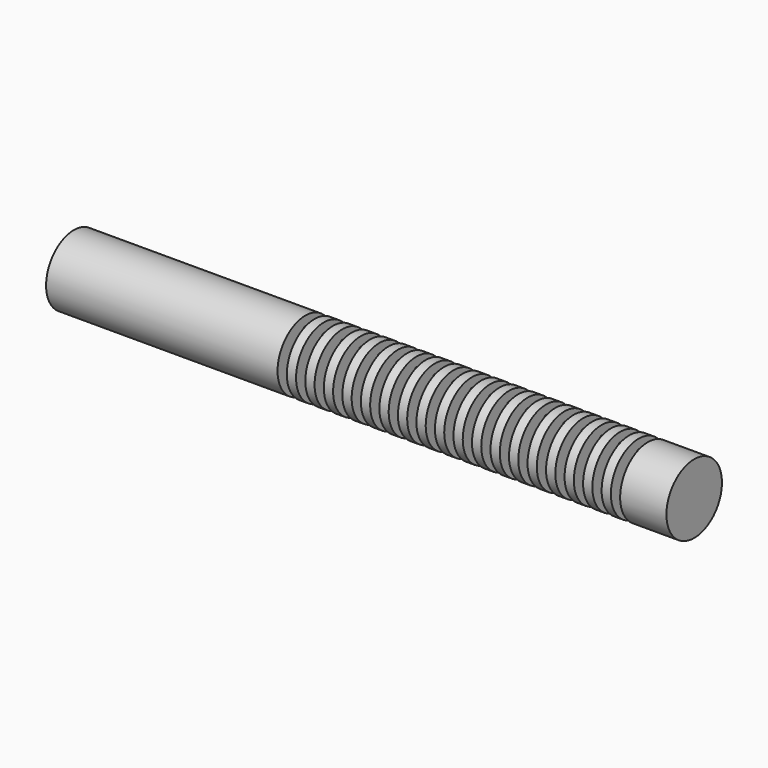
from build123d import *

# Parameters (mm, degrees)
F1_W     = 20
F1_H     = 57.5
F2_W     = 100
F2_H     = 75
F4_R     = 5
F5_DEPTH = 765
F6_DEPTH = 765


with BuildPart() as f3:
    # F0 (on Top) → F3 (revolve)
    with BuildSketch(Plane.XY):
        Polygon((-200, 0), (-500, 0), (-500, -75), (0, -75), (0, -17.5), (-200, -17.5), align=None)
    revolve(axis=Axis((-350, 0, 0), (-1, 0, 0)))


with BuildPart() as f3b:
    # F1 (on Top) → F3, piece 2 (revolve)
    with BuildSketch(Plane.XY):
        with Locations((190, -46.25)):
            Rectangle(F1_W, F1_H)
    revolve(axis=Axis((-350, 0, 0), (-1, 0, 0)))


with BuildPart() as f3c:
    # F1 (on Top) → F3, piece 3 (revolve)
    with BuildSketch(Plane.XY):
        with Locations((390, -46.25)):
            Rectangle(F1_W, F1_H)
    revolve(axis=Axis((-350, 0, 0), (-1, 0, 0)))


with BuildPart() as f3d:
    # F1 (on Top) → F3, piece 4 (revolve)
    with BuildSketch(Plane.XY):
        with Locations((150, -46.25)):
            Rectangle(F1_W, F1_H)
    revolve(axis=Axis((-350, 0, 0), (-1, 0, 0)))


with BuildPart() as f3e:
    # F1 (on Top) → F3, piece 5 (revolve)
    with BuildSketch(Plane.XY):
        with Locations((110, -46.25)):
            Rectangle(F1_W, F1_H)
    revolve(axis=Axis((-350, 0, 0), (-1, 0, 0)))


with BuildPart() as f3f:
    # F1 (on Top) → F3, piece 6 (revolve)
    with BuildSketch(Plane.XY):
        with Locations((430, -46.25)):
            Rectangle(F1_W, F1_H)
    revolve(axis=Axis((-350, 0, 0), (-1, 0, 0)))


with BuildPart() as f3g:
    # F1 (on Top) → F3, piece 7 (revolve)
    with BuildSketch(Plane.XY):
        with Locations((70, -46.25)):
            Rectangle(F1_W, F1_H)
    revolve(axis=Axis((-350, 0, 0), (-1, 0, 0)))


with BuildPart() as f3h:
    # F1 (on Top) → F3, piece 8 (revolve)
    with BuildSketch(Plane.XY):
        with Locations((350, -46.25)):
            Rectangle(F1_W, F1_H)
    revolve(axis=Axis((-350, 0, 0), (-1, 0, 0)))


with BuildPart() as f3i:
    # F1 (on Top) → F3, piece 9 (revolve)
    with BuildSketch(Plane.XY):
        with Locations((710, -46.25)):
            Rectangle(F1_W, F1_H)
    revolve(axis=Axis((-350, 0, 0), (-1, 0, 0)))


with BuildPart() as f3j:
    # F1 (on Top) → F3, piece 10 (revolve)
    with BuildSketch(Plane.XY):
        with Locations((670, -46.25)):
            Rectangle(F1_W, F1_H)
    revolve(axis=Axis((-350, 0, 0), (-1, 0, 0)))


with BuildPart() as f3k:
    # F1 (on Top) → F3, piece 11 (revolve)
    with BuildSketch(Plane.XY):
        with Locations((510, -46.25)):
            Rectangle(F1_W, F1_H)
    revolve(axis=Axis((-350, 0, 0), (-1, 0, 0)))


with BuildPart() as f3l:
    # F1 (on Top) → F3, piece 12 (revolve)
    with BuildSketch(Plane.XY):
        with Locations((230, -46.25)):
            Rectangle(F1_W, F1_H)
    revolve(axis=Axis((-350, 0, 0), (-1, 0, 0)))


with BuildPart() as f3m:
    # F1 (on Top) → F3, piece 13 (revolve)
    with BuildSketch(Plane.XY):
        with Locations((270, -46.25)):
            Rectangle(F1_W, F1_H)
    revolve(axis=Axis((-350, 0, 0), (-1, 0, 0)))


with BuildPart() as f3n:
    # F1 (on Top) → F3, piece 14 (revolve)
    with BuildSketch(Plane.XY):
        with Locations((470, -46.25)):
            Rectangle(F1_W, F1_H)
    revolve(axis=Axis((-350, 0, 0), (-1, 0, 0)))


with BuildPart() as f3o:
    # F1 (on Top) → F3, piece 15 (revolve)
    with BuildSketch(Plane.XY):
        with Locations((310, -46.25)):
            Rectangle(F1_W, F1_H)
    revolve(axis=Axis((-350, 0, 0), (-1, 0, 0)))


with BuildPart() as f3p:
    # F1 (on Top) → F3, piece 16 (revolve)
    with BuildSketch(Plane.XY):
        with Locations((30, -46.25)):
            Rectangle(F1_W, F1_H)
    revolve(axis=Axis((-350, 0, 0), (-1, 0, 0)))


with BuildPart() as f3q:
    # F1 (on Top) → F3, piece 17 (revolve)
    with BuildSketch(Plane.XY):
        with Locations((590, -46.25)):
            Rectangle(F1_W, F1_H)
    revolve(axis=Axis((-350, 0, 0), (-1, 0, 0)))


with BuildPart() as f3r:
    # F1 (on Top) → F3, piece 18 (revolve)
    with BuildSketch(Plane.XY):
        with Locations((550, -46.25)):
            Rectangle(F1_W, F1_H)
    revolve(axis=Axis((-350, 0, 0), (-1, 0, 0)))


with BuildPart() as f3s:
    # F2 (on Top) → F3, piece 19 (revolve)
    with BuildSketch(Plane.XY):
        with Locations((790, -37.5)):
            Rectangle(F2_W, F2_H)
    revolve(axis=Axis((-350, 0, 0), (-1, 0, 0)))


with BuildPart() as f3t:
    # F1 (on Top) → F3, piece 20 (revolve)
    with BuildSketch(Plane.XY):
        with Locations((630, -46.25)):
            Rectangle(F1_W, F1_H)
    revolve(axis=Axis((-350, 0, 0), (-1, 0, 0)))


with BuildPart() as f5_tool:
    # F4 (on Right) → F5 (new body, through all)
    with BuildSketch(Plane.YZ):
        with Locations((0, 50)):
            Circle(F4_R)
        with Locations((-43.3012701892, -25)):
            Circle(F4_R)
        with Locations((43.3012701892, -25)):
            Circle(F4_R)
    extrude(amount=F5_DEPTH)


with BuildPart() as f3b_1:
    add(f3b.part)

    # F5: cut by f5_tool
    add(f5_tool.part, mode=Mode.SUBTRACT)


with BuildPart() as f3c_1:
    add(f3c.part)

    # F5: cut by f5_tool
    add(f5_tool.part, mode=Mode.SUBTRACT)


with BuildPart() as f3d_1:
    add(f3d.part)

    # F5: cut by f5_tool
    add(f5_tool.part, mode=Mode.SUBTRACT)


with BuildPart() as f3e_1:
    add(f3e.part)

    # F5: cut by f5_tool
    add(f5_tool.part, mode=Mode.SUBTRACT)


with BuildPart() as f3f_1:
    add(f3f.part)

    # F5: cut by f5_tool
    add(f5_tool.part, mode=Mode.SUBTRACT)


with BuildPart() as f3g_1:
    add(f3g.part)

    # F5: cut by f5_tool
    add(f5_tool.part, mode=Mode.SUBTRACT)


with BuildPart() as f3h_1:
    add(f3h.part)

    # F5: cut by f5_tool
    add(f5_tool.part, mode=Mode.SUBTRACT)


with BuildPart() as f3i_1:
    add(f3i.part)

    # F5: cut by f5_tool
    add(f5_tool.part, mode=Mode.SUBTRACT)


with BuildPart() as f3j_1:
    add(f3j.part)

    # F5: cut by f5_tool
    add(f5_tool.part, mode=Mode.SUBTRACT)


with BuildPart() as f3k_1:
    add(f3k.part)

    # F5: cut by f5_tool
    add(f5_tool.part, mode=Mode.SUBTRACT)


with BuildPart() as f3l_1:
    add(f3l.part)

    # F5: cut by f5_tool
    add(f5_tool.part, mode=Mode.SUBTRACT)


with BuildPart() as f3m_1:
    add(f3m.part)

    # F5: cut by f5_tool
    add(f5_tool.part, mode=Mode.SUBTRACT)


with BuildPart() as f3n_1:
    add(f3n.part)

    # F5: cut by f5_tool
    add(f5_tool.part, mode=Mode.SUBTRACT)


with BuildPart() as f3o_1:
    add(f3o.part)

    # F5: cut by f5_tool
    add(f5_tool.part, mode=Mode.SUBTRACT)


with BuildPart() as f3p_1:
    add(f3p.part)

    # F5: cut by f5_tool
    add(f5_tool.part, mode=Mode.SUBTRACT)


with BuildPart() as f3q_1:
    add(f3q.part)

    # F5: cut by f5_tool
    add(f5_tool.part, mode=Mode.SUBTRACT)


with BuildPart() as f3r_1:
    add(f3r.part)

    # F5: cut by f5_tool
    add(f5_tool.part, mode=Mode.SUBTRACT)


with BuildPart() as f3s_1:
    add(f3s.part)

    # F5: cut by f5_tool
    add(f5_tool.part, mode=Mode.SUBTRACT)


with BuildPart() as f3t_1:
    add(f3t.part)

    # F5: cut by f5_tool
    add(f5_tool.part, mode=Mode.SUBTRACT)


with BuildPart() as f6:
    # F4 (on Right) → F6 (new body, through all)
    with BuildSketch(Plane.YZ):
        with Locations((0, 50)):
            Circle(F4_R)
    extrude(amount=F6_DEPTH)


with BuildPart() as f6b:
    # F4 (on Right) → F6, piece 2 (new body, through all)
    with BuildSketch(Plane.YZ):
        with Locations((-43.3012701892, -25)):
            Circle(F4_R)
    extrude(amount=F6_DEPTH)


with BuildPart() as f6c:
    # F4 (on Right) → F6, piece 3 (new body, through all)
    with BuildSketch(Plane.YZ):
        with Locations((43.3012701892, -25)):
            Circle(F4_R)
    extrude(amount=F6_DEPTH)


with BuildPart() as f7:
    # F2 (on Top) → F7 (revolve)
    with BuildSketch(Plane.XY):
        with Locations((790, -37.5)):
            Rectangle(F2_W, F2_H)
    revolve(axis=Axis((790, 0, 0), (1, 0, 0)))


solid = Compound([f3.part, f3b_1.part, f3c_1.part, f3d_1.part, f3e_1.part, f3f_1.part, f3g_1.part, f3h_1.part, f3i_1.part, f3j_1.part, f3k_1.part, f3l_1.part, f3m_1.part, f3n_1.part, f3o_1.part, f3p_1.part, f3q_1.part, f3r_1.part, f3s_1.part, f3t_1.part, f6.part, f6b.part, f6c.part, f7.part])
